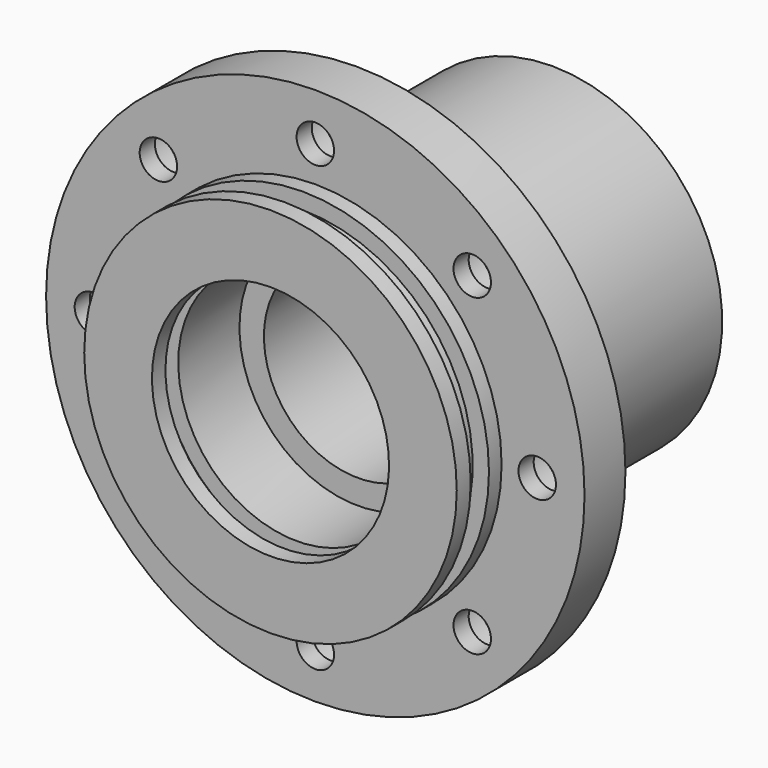
from build123d import *

# Parameters (mm, degrees)
F2_R     = 3.25
F3_DEPTH = 3
F4_R     = 1.75
F5_DEPTH = 32.894


with BuildPart() as f1:
    # F0 (on Right) → F1 (revolve)
    with BuildSketch(Plane.YZ):
        Polygon((1.6256, 17.399), (0, 17.399), (0, 11.0744), (1.5748, 11.0744), (1.5748, 12.5984), (3.0734, 12.5984), (3.0734, 11.0744), (10.21715, 11.0744), (10.21715, 8.7884), (26.546713, 8.7884), (28.1305, 7.874), (32.893, 7.874), (32.893, 15.875), (10.0076, 15.875), (10.0076, 25.146), (5.2324, 25.146), (5.2324, 17.399), (3.7592, 17.399), (3.7592, 15.875), (1.6256, 15.875), align=None)
    revolve(axis=Axis((0, 16.4465, 0), (0, 1, 0)))

    # F2 (on face) → F3 (cut)
    with BuildSketch(Plane(origin=(0, 10.0076, 0), x_dir=(-1, 0, 0), z_dir=(0, 1, 0))):
        with Locations((0, 20.7264)):
            Circle(F2_R)
        with Locations((-14.655778, 14.655778)):
            Circle(F2_R)
        with Locations((-20.7264, 0)):
            Circle(F2_R)
        with Locations((-14.655778, -14.655778)):
            Circle(F2_R)
        with Locations((0, -20.7264)):
            Circle(F2_R)
        with Locations((14.655778, -14.655778)):
            Circle(F2_R)
        with Locations((20.7264, 0)):
            Circle(F2_R)
        with Locations((14.655778, 14.655778)):
            Circle(F2_R)
    extrude(amount=-F3_DEPTH, mode=Mode.SUBTRACT)

    # F4 (on Front) → F5 (cut, through all)
    with BuildSketch(Plane.XZ):
        with Locations((0, 20.7264)):
            Circle(F4_R)
        with Locations((-14.655778, 14.655778)):
            Circle(F4_R)
        with Locations((-20.7264, 0)):
            Circle(F4_R)
        with Locations((-14.655778, -14.655778)):
            Circle(F4_R)
        with Locations((0, -20.7264)):
            Circle(F4_R)
        with Locations((14.655778, -14.655778)):
            Circle(F4_R)
        with Locations((20.7264, 0)):
            Circle(F4_R)
        with Locations((14.655778, 14.655778)):
            Circle(F4_R)
    extrude(amount=-F5_DEPTH, mode=Mode.SUBTRACT)


solid = f1.part
